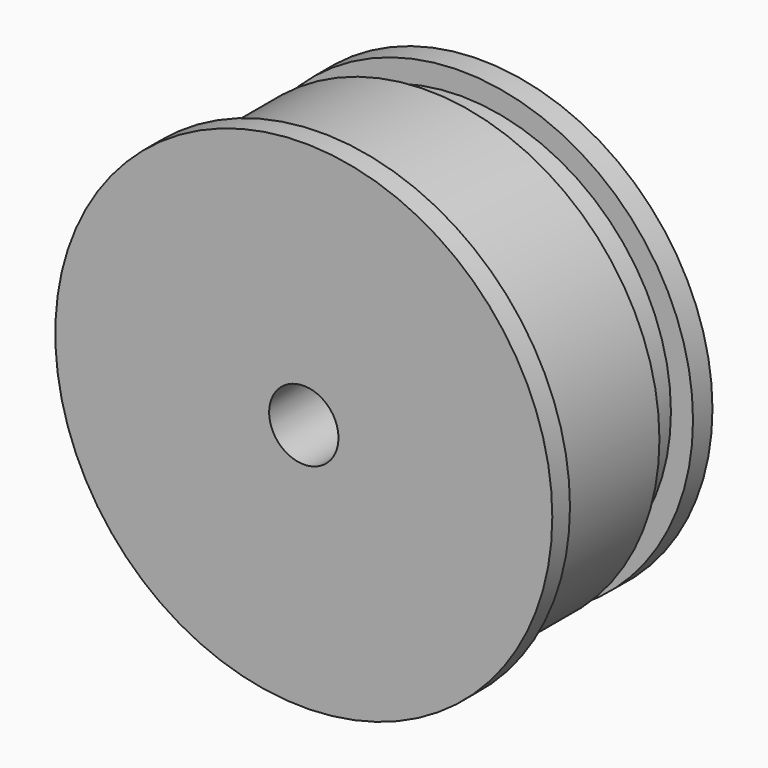
from build123d import *

# Parameters (mm, degrees)
F3_D = 3.9878


with BuildPart() as f1:
    # F0 (on Top) → F1 (revolve)
    with BuildSketch(Plane.XY):
        Polygon((0, 12.7), (0, 0), (14.2875, 0), (14.2875, 1.27), (13.335, 1.27), (13.335, 8.89), (12.065, 8.89), (12.065, 11.303), (13.335, 11.303), (13.335, 12.7), align=None)
    revolve(axis=Axis((0, 6.35, 0), (0, 1, 0)))

    # F3 (through all)
    with Locations(Plane.XZ):
        with Locations((0, 0)):
            Hole(F3_D / 2)


solid = f1.part
